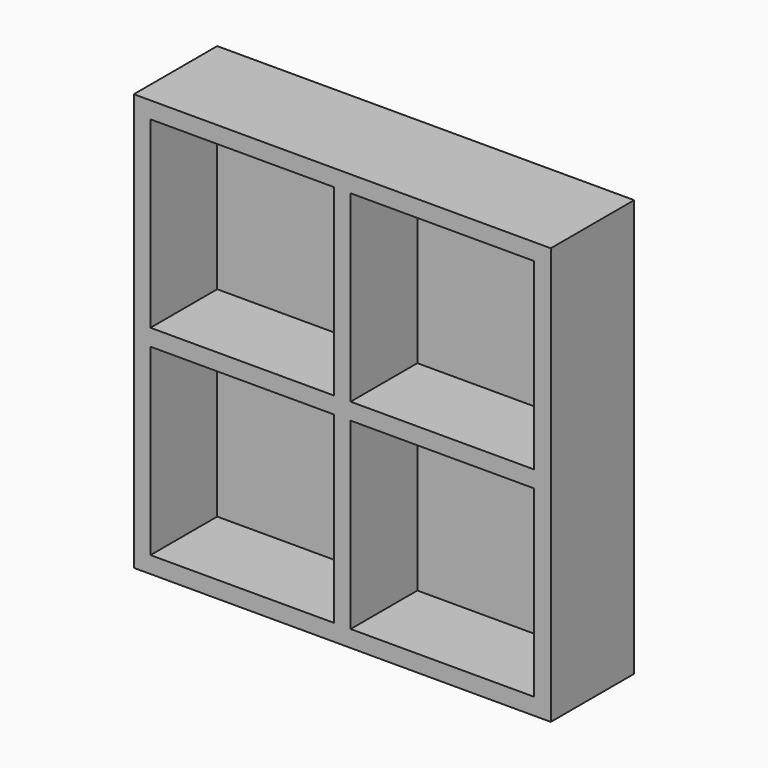
from build123d import *

# Parameters (mm, degrees)
F0_W     = 100
F0_H     = 100
F0_W_2   = 44
F0_H_2   = 44
F1_DEPTH = 20
F2_W     = 100
F2_H     = 100
F3_DEPTH = 5


with BuildPart() as f1:
    # F0 (on Front) → F1 (new body)
    with BuildSketch(Plane.XZ):
        with Locations((-4.064368, -0.652734)):
            Rectangle(F0_W, F0_H)
        with Locations((-28.064368, -24.652734)):
            Rectangle(F0_W_2, F0_H_2, mode=Mode.SUBTRACT)
        with Locations((19.935632, -24.652734)):
            Rectangle(F0_W_2, F0_H_2, mode=Mode.SUBTRACT)
        with Locations((-28.064368, 23.347266)):
            Rectangle(F0_W_2, F0_H_2, mode=Mode.SUBTRACT)
        with Locations((19.935632, 23.347266)):
            Rectangle(F0_W_2, F0_H_2, mode=Mode.SUBTRACT)
    extrude(amount=F1_DEPTH)

    # F2 (on face) → F3 (join)
    with BuildSketch(Plane(origin=(0, 0, 0), x_dir=(-1, 0, 0), z_dir=(0, 1, 0))):
        with Locations((4.064368, -0.652734)):
            Rectangle(F2_W, F2_H)
    extrude(amount=F3_DEPTH)


solid = f1.part
